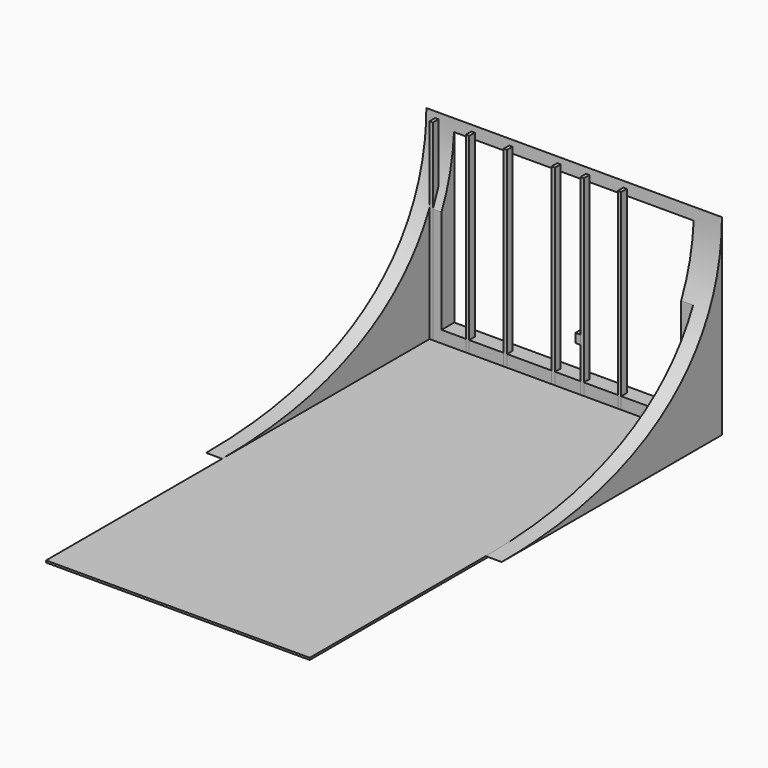
from build123d import *

# Parameters (mm, degrees)
F0_W      = 3352.8
F0_H      = 6096
F1_DEPTH  = 25.4
F3_DEPTH  = 2438.4
F5_W      = 3048
F5_H      = 2133.6
F6_DEPTH  = 203.2000480652
F8_DEPTH  = 88.9
F7_W      = 43.18
F7_H      = 2438.4
F9_W      = 63.5
F9_H      = 57.15
F9_R      = 18.2732775263
F10_DEPTH = 76.2
F11_DEPTH = 3759.2010961304


with BuildPart() as f1:
    # F0 (on Top) → F1 (new body)
    with BuildSketch(Plane.XY):
        with Locations((-5.4035186768, 1101.4522645245)):
            Rectangle(F0_W, F0_H)
    extrude(amount=F1_DEPTH)


with BuildPart() as f3:
    # F2 (on face) → F3 (new body)
    with BuildSketch(Plane.XY.offset(25.4)):
        Polygon((-1681.8035186768, -1946.5477354755), (-1681.8035186768, 4149.4522645245), (1670.9964813232, 4149.4522645245), (1670.9964813232, -1946.5477354755), (1874.1965293884, -1946.5477354755), (1874.1965293884, 4352.6523125897), (-1885.0035667419, 4352.6523125897), (-1885.0035667419, -1946.5477354755), align=None)
    extrude(amount=F3_DEPTH)

    # F5 (on face) → F6 (cut, through all)
    with BuildSketch(Plane.XZ.offset(-4149.4522645245)):
        with Locations((-5.4035186768, 1244.6)):
            Rectangle(F5_W, F5_H)
    extrude(amount=-F6_DEPTH, mode=Mode.SUBTRACT)

    # F4 (on face) → F11 (cut, through all)
    with BuildSketch(Plane.YZ.offset(1874.1965293884)):
        with BuildLine():
            add(Edge.make_bspline(
                [(4352.6523125897, 2463.8), (4352.6523125897, 1166.9830083847), (3425.7471561432, 25.4), (852.1376252174, 25.4)],
                knots=[0, 0, 0, 0, 4266.0752028661, 4266.0752028661, 4266.0752028661, 4266.0752028661], degree=3))
            Line((4352.6523125897, 2463.8), (-1946.5477354755, 2463.8))
            Line((-1946.5477354755, 2463.8), (-1946.5477354755, 25.4))
            Line((-1946.5477354755, 25.4), (852.1376252174, 25.4))
        make_face()
    extrude(amount=-F11_DEPTH, mode=Mode.SUBTRACT)


with BuildPart() as f8:
    # F7 (on face) → F8 (new body)
    with BuildSketch(Plane.XZ.offset(-4149.4522645245)):
        Polygon((734.2444813232, 2463.8), (712.6544813232, 2463.8), (712.6544813232, 25.4), (755.8344813232, 25.4), (755.8344813232, 2463.8), align=None)
    extrude(amount=-F8_DEPTH)


with BuildPart() as f8b:
    # F7 (on face) → F8, piece 2 (new body)
    with BuildSketch(Plane.XZ.offset(-4149.4522645245)):
        Polygon((258.7564813232, 2463.8), (237.1664813232, 2463.8), (237.1664813232, 25.4), (280.3464813232, 25.4), (280.3464813232, 2463.8), align=None)
    extrude(amount=-F8_DEPTH)


with BuildPart() as f8c:
    # F7 (on face) → F8, piece 3 (new body)
    with BuildSketch(Plane.XZ.offset(-4149.4522645245)):
        Polygon((-107.0035186768, 2463.8), (-128.5935186768, 2463.8), (-128.5935186768, 25.4), (-85.4135186768, 25.4), (-85.4135186768, 2463.8), align=None)
    extrude(amount=-F8_DEPTH)


with BuildPart() as f8d:
    # F7 (on face) → F8, piece 4 (new body)
    with BuildSketch(Plane.XZ.offset(-4149.4522645245)):
        Polygon((-716.6035186768, 2463.8), (-738.1935186768, 2463.8), (-738.1935186768, 25.4), (-695.0135186768, 25.4), (-695.0135186768, 2463.8), align=None)
    extrude(amount=-F8_DEPTH)


with BuildPart() as f8e:
    # F7 (on face) → F8, piece 5 (new body)
    with BuildSketch(Plane.XZ.offset(-4149.4522645245)):
        Polygon((-1199.2035186768, 2463.8), (-1220.7935186768, 2463.8), (-1220.7935186768, 25.4), (-1177.6135186768, 25.4), (-1177.6135186768, 2463.8), align=None)
    extrude(amount=-F8_DEPTH)


with BuildPart() as f8f:
    # F7 (on face) → F8, piece 6 (new body)
    with BuildSketch(Plane.XZ.offset(-4149.4522645245)):
        with Locations((-1660.2135186768, 1244.6)):
            Rectangle(F7_W, F7_H)
    extrude(amount=-F8_DEPTH)


with BuildPart() as f10:
    # F9 (on face) → F10 (new body)
    with BuildSketch(Plane.XZ.offset(-4149.4522645245)):
        with Locations((205.4164813232, 612.775)):
            Rectangle(F9_W, F9_H)
        with Locations((206.4785659313, 613.4417653084)):
            Circle(F9_R, mode=Mode.SUBTRACT)
        with Locations((206.4785659313, 613.4417653084)):
            Circle(F9_R)
        with Locations((205.4164813232, 669.925)):
            Rectangle(F9_W, F9_H)
        with Locations((206.4706981182, 669.3662405014)):
            Circle(F9_R, mode=Mode.SUBTRACT)
        with Locations((206.4706981182, 669.3662405014)):
            Circle(F9_R)
    extrude(amount=-F10_DEPTH)


solid = Compound([f1.part, f3.part, f8.part, f8b.part, f8c.part, f8d.part, f8e.part, f8f.part, f10.part])
